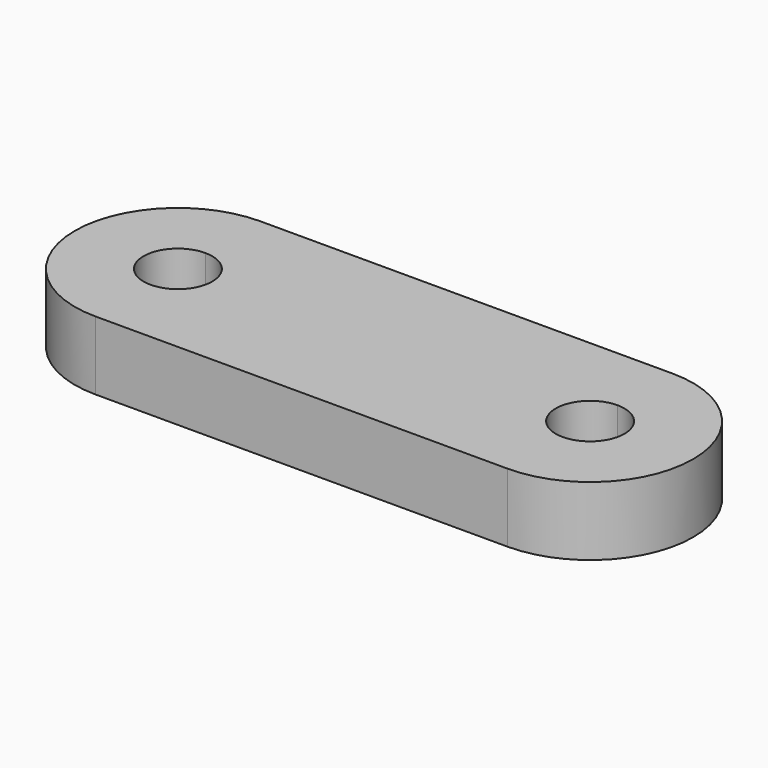
from build123d import *

# Parameters (mm, degrees)
F1_DEPTH = 6.35


with BuildPart() as f1:
    # F0 (on Top) → F1 (new body)
    with BuildSketch(Plane.XY):
        with BuildLine():
            Line((19.05, 3.175), (19.05, 9.525))
            Line((19.05, 9.525), (-19.05, 9.525))
            Line((-19.05, 9.525), (-19.05, 3.175))
            ThreePointArc((-19.05, 3.175), (-16.804936, 2.245064), (-15.875, 0))
            ThreePointArc((-15.875, 0), (-16.804936, -2.245064), (-19.05, -3.175))
            Line((-19.05, -3.175), (-19.05, -9.525))
            Line((-19.05, -9.525), (19.05, -9.525))
            Line((19.05, -9.525), (19.05, -3.175))
            ThreePointArc((19.05, -3.175), (15.875, 0), (19.05, 3.175))
        make_face()
        with BuildLine():
            ThreePointArc((19.05, -9.525), (28.575, 0), (19.05, 9.525))
            Line((19.05, 9.525), (19.05, 3.175))
            ThreePointArc((19.05, 3.175), (21.295064, 2.245064), (22.225, 0))
            ThreePointArc((22.225, 0), (21.295064, -2.245064), (19.05, -3.175))
            Line((19.05, -3.175), (19.05, -9.525))
        make_face()
        with BuildLine():
            Line((-19.05, 3.175), (-19.05, 9.525))
            ThreePointArc((-19.05, 9.525), (-28.575, 0), (-19.05, -9.525))
            Line((-19.05, -9.525), (-19.05, -3.175))
            ThreePointArc((-19.05, -3.175), (-22.225, 0), (-19.05, 3.175))
        make_face()
    extrude(amount=F1_DEPTH)


solid = f1.part
